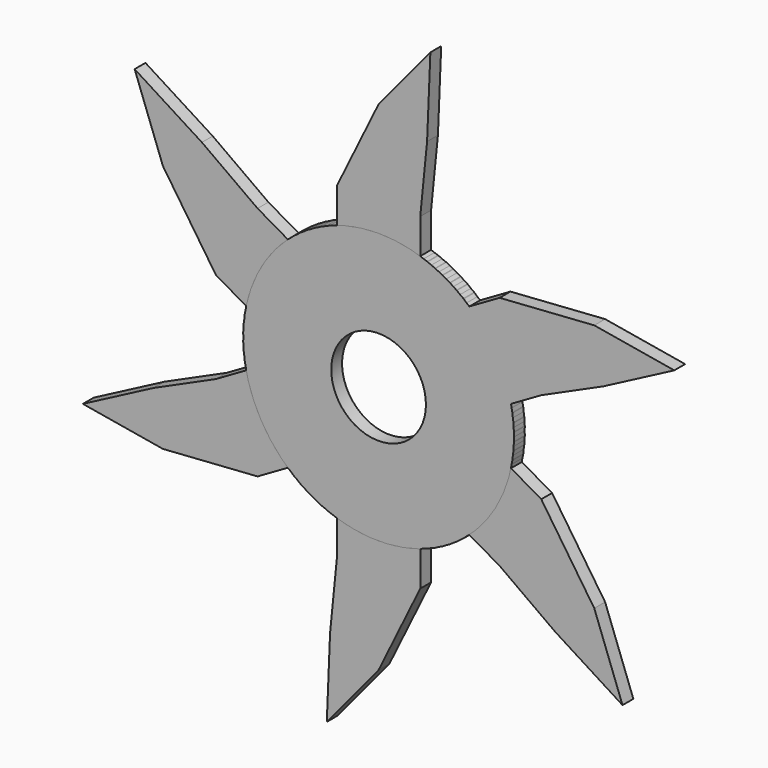
from build123d import *

# Parameters (mm, degrees)
F0_R     = 12.7
F1_DEPTH = 0.635
F2_W     = 7.8154923394
F2_H     = 5.9610567987
F3_DEPTH = 0.635
F4_COUNT = 6
F5_R     = 4.439905228
F6_DEPTH = 0.635


with BuildPart() as f1:
    # F0 (on Front) → F1 (new body, symmetric)
    with BuildSketch(Plane.XZ):
        Circle(F0_R)
    extrude(amount=F1_DEPTH, both=True)

    # F2 (on Front) → F3 (join, symmetric)
    with BuildSketch(Plane.XZ):
        with Locations((0, 12.3791769147)):
            Rectangle(F2_W, F2_H)
        Polygon((-3.9077461697, 15.359705314), (3.9077461697, 15.359705314), (4.5490232296, 21.7559374869), (0, 23.3552493155), align=None)
        Polygon((0, 23.3552493155), (4.5490232296, 21.7559374869), (4.8568574712, 29.218012467), align=None)
    extrude(amount=F3_DEPTH, both=True)


with BuildPart() as f4_1:
    # F4: instance of F1
    add(f1.part.rotate(Axis((0, 0, 0), (0, -1, 0)), 1 * 360 / F4_COUNT))


with BuildPart() as f4_2:
    # F4: instance of F1
    add(f1.part.rotate(Axis((0, 0, 0), (0, -1, 0)), 2 * 360 / F4_COUNT))


with BuildPart() as f4_3:
    # F4: instance of F1
    add(f1.part.rotate(Axis((0, 0, 0), (0, -1, 0)), 3 * 360 / F4_COUNT))


with BuildPart() as f4_4:
    # F4: instance of F1
    add(f1.part.rotate(Axis((0, 0, 0), (0, -1, 0)), 4 * 360 / F4_COUNT))


with BuildPart() as f4_5:
    # F4: instance of F1
    add(f1.part.rotate(Axis((0, 0, 0), (0, -1, 0)), 5 * 360 / F4_COUNT))


with BuildPart() as f6_tool:
    # F5 (on Front) → F6 (new body, symmetric)
    with BuildSketch(Plane.XZ):
        Circle(F5_R)
    extrude(amount=F6_DEPTH, both=True)


with BuildPart() as f1_1:
    add(f1.part)

    # F6: cut by f6_tool
    add(f6_tool.part, mode=Mode.SUBTRACT)


with BuildPart() as f4_1_1:
    add(f4_1.part)

    # F6: cut by f6_tool
    add(f6_tool.part, mode=Mode.SUBTRACT)


with BuildPart() as f4_2_1:
    add(f4_2.part)

    # F6: cut by f6_tool
    add(f6_tool.part, mode=Mode.SUBTRACT)


with BuildPart() as f4_3_1:
    add(f4_3.part)

    # F6: cut by f6_tool
    add(f6_tool.part, mode=Mode.SUBTRACT)


with BuildPart() as f4_4_1:
    add(f4_4.part)

    # F6: cut by f6_tool
    add(f6_tool.part, mode=Mode.SUBTRACT)


with BuildPart() as f4_5_1:
    add(f4_5.part)

    # F6: cut by f6_tool
    add(f6_tool.part, mode=Mode.SUBTRACT)


solid = Compound([f1_1.part, f4_1_1.part, f4_2_1.part, f4_3_1.part, f4_4_1.part, f4_5_1.part])
